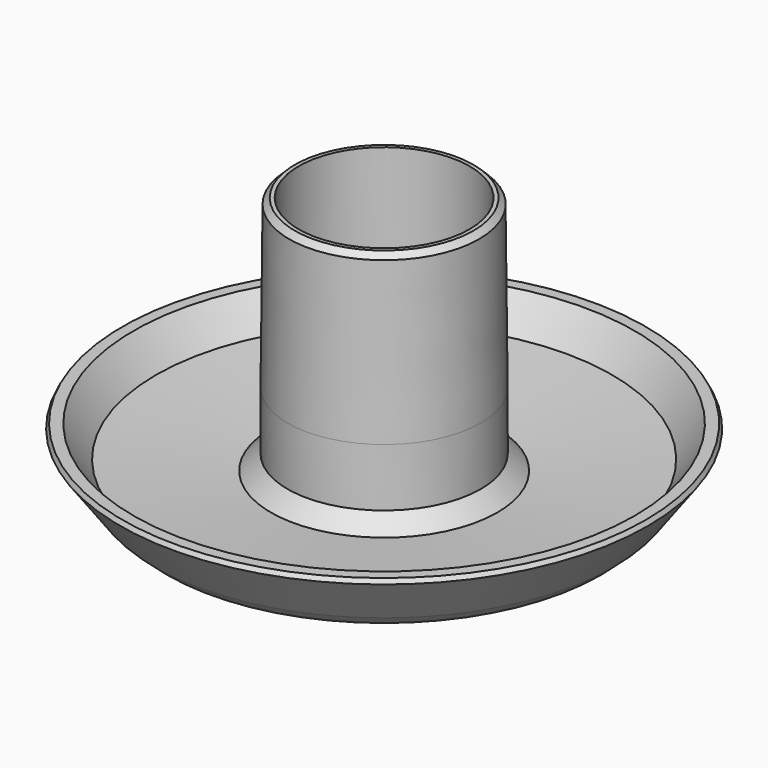
from build123d import *

# Parameters (mm, degrees)
F2_SIZE  = 10
F3_SIZE  = 3
F4_SIZE2 = 0.3
F4_SIZE  = 30
F5_SIZE  = 1
F6_SIZE  = 1


with BuildPart() as f1:
    # F0 (on Front) → F1 (revolve)
    with BuildSketch(Plane.XZ):
        Polygon((15.35, 1.3613448423), (0, 0), (15.35, 0), align=None)
        Polygon((15.35, 0), (0, 0), (0, -2), (38.9759652317, -2), (41.235409677, 0), (35, 0), (17.35, 0), align=None)
        Polygon((15.35, 1.3613448423), (15.35, 0), (17.35, 0), (17.35, 1.5387187631), align=None)
        Polygon((15.35, 44.9680350721), (15.35, 1.3613448423), (17.35, 1.5387187631), (17.35, 44.9680350721), align=None)
        Polygon((17.35, 1.5387187631), (17.35, 0), (35, 0), (41.235409677, 0), (48, 9.3012940374), (45, 9.3012940374), (40.9695953131, 3.6334688775), align=None)
    revolve(axis=Axis((0, 0, 15.92751313), (0, 0, -1)))

    # F2
    f2_edges = [f1.edges().sort_by_distance(p)[0] for p in [
        (-15.35, 0, 1.361345),
    ]]
    chamfer(f2_edges, length=F2_SIZE)

    # F3
    f3_edges = [f1.edges().sort_by_distance(p)[0] for p in [
        (-17.35, 0, 1.538719),
    ]]
    chamfer(f3_edges, length=F3_SIZE)

    # F4
    f4_edges = [f1.edges().sort_by_distance(p)[0] for p in [
        (-17.35, 0, 44.968035),
    ]]
    f4_side = f1.faces().sort_by_distance((-17.35, 0, 24.753377))[0]
    chamfer(f4_edges, length=F4_SIZE, length2=F4_SIZE2, reference=f4_side)

    # F5
    f5_edges = [f1.edges().sort_by_distance(p)[0] for p in [
        (-48, 0, 9.301294),
    ]]
    chamfer(f5_edges, length=F5_SIZE)

    # F6
    f6_edges = [f1.edges().sort_by_distance(p)[0] for p in [
        (-17.05, 0, 44.968035),
    ]]
    chamfer(f6_edges, length=F6_SIZE)


solid = f1.part
